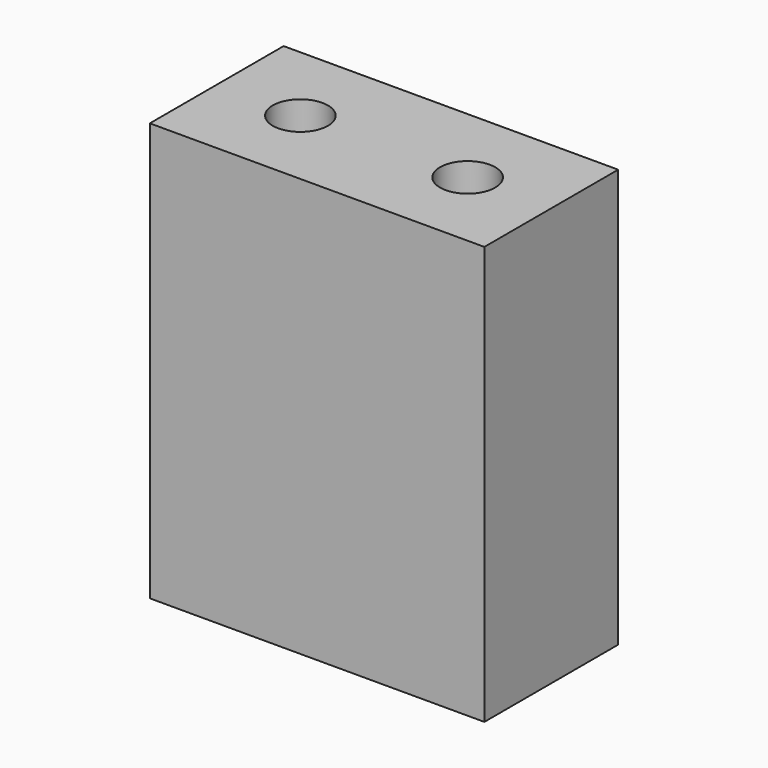
from build123d import *

# Parameters (mm, degrees)
F0_W     = 20
F0_H     = 10
F1_DEPTH = 25
F3_D     = 2.5
F3_DEPTH = 9.5
F3_TIP   = 0.7510757738
F4_D     = 3.3
F4_DEPTH = 10
F4_TIP   = 0.9914200214


with BuildPart() as f1:
    # F0 (on Top) → F1 (new body)
    with BuildSketch(Plane.XY):
        Rectangle(F0_W, F0_H)
    extrude(amount=-F1_DEPTH)

    # F3
    with Locations(Plane(origin=(0, 0, -25), x_dir=(1, 0, 0), z_dir=(0, 0, -1))):
        with Locations((-5, 0), (5, 0)):
            Hole(F3_D / 2, depth=F3_DEPTH)
            with Locations((0, 0, -(F3_DEPTH + F3_TIP / 2))):  # 118° drill point
                Cone(0, F3_D / 2, F3_TIP, mode=Mode.SUBTRACT)

    # F4
    with Locations(Plane.XY):
        with Locations((-5, 0), (5, 0)):
            Hole(F4_D / 2, depth=F4_DEPTH)
            with Locations((0, 0, -(F4_DEPTH + F4_TIP / 2))):  # 118° drill point
                Cone(0, F4_D / 2, F4_TIP, mode=Mode.SUBTRACT)


solid = f1.part
